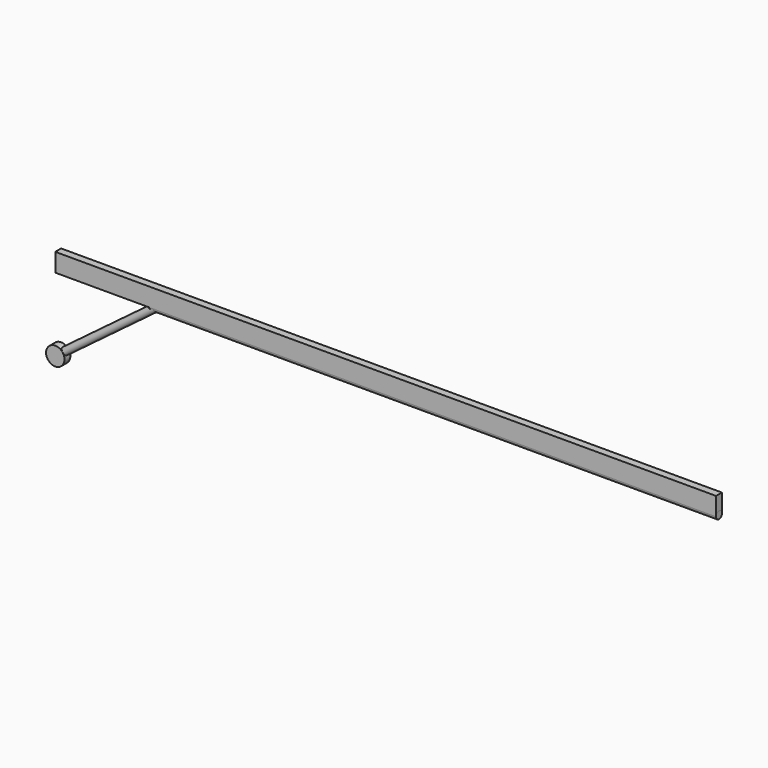
from build123d import *

# Parameters (mm, degrees)
F0_W     = 457.2
F0_H     = 12.7
F1_DEPTH = 2.54
F0_R     = 6.3655376122


with BuildPart() as f1:
    # F0 (on Front) → F1 (new body, symmetric)
    with BuildSketch(Plane.XZ):
        with Locations((40.0032907919, -6.35)):
            Rectangle(F0_W, F0_H)
    extrude(amount=F1_DEPTH, both=True)


with BuildPart() as f1b:
    # F0 (on Front) → F1, piece 2 (new body, symmetric)
    with BuildSketch(Plane.XZ):
        with Locations((-188.5967092081, -63.5)):
            Circle(F0_R)
    extrude(amount=F1_DEPTH, both=True)


with BuildPart() as f3:
    # F2 (on Front) → F3 (revolve)
    with BuildSketch(Plane.XZ):
        Polygon((-119.3393925642, -14.7319998171), (-120.8633928081, -12.7), (-123.6254423857, -14.7715377011), (-123.6254423857, -15.24), (-120.0167259721, -15.24), align=None)
        Polygon((-123.6254423857, -15.24), (-123.6254423857, -14.7715377011), (-188.5967092081, -63.5), (-187.0727089642, -65.5319998171), (-120.0167259721, -15.24), align=None)
    revolve(axis=Axis((-154.7300510081, 0, -38.1), (-0.799999928, 0, -0.600000096)))


with BuildPart() as f4:
    # F2 (on Front) → F4 (revolve)
    with BuildSketch(Plane.XZ):
        Polygon((268.6032907919, -12.7), (-120.8633928081, -12.7), (-119.3393925642, -14.7319998171), (-120.0167259721, -15.24), (268.6032907919, -15.24), align=None)
        Polygon((-123.6254423857, -14.7715377011), (-120.8633928081, -12.7), (-123.6254423857, -12.7), align=None)
        Polygon((-119.3393925642, -14.7319998171), (-120.8633928081, -12.7), (-123.6254423857, -14.7715377011), (-123.6254423857, -15.24), (-120.0167259721, -15.24), align=None)
    revolve(axis=Axis((-122.2444175969, 0, -12.7), (-1, 0, 0)))


solid = Compound([f1.part, f1b.part, f3.part, f4.part])
